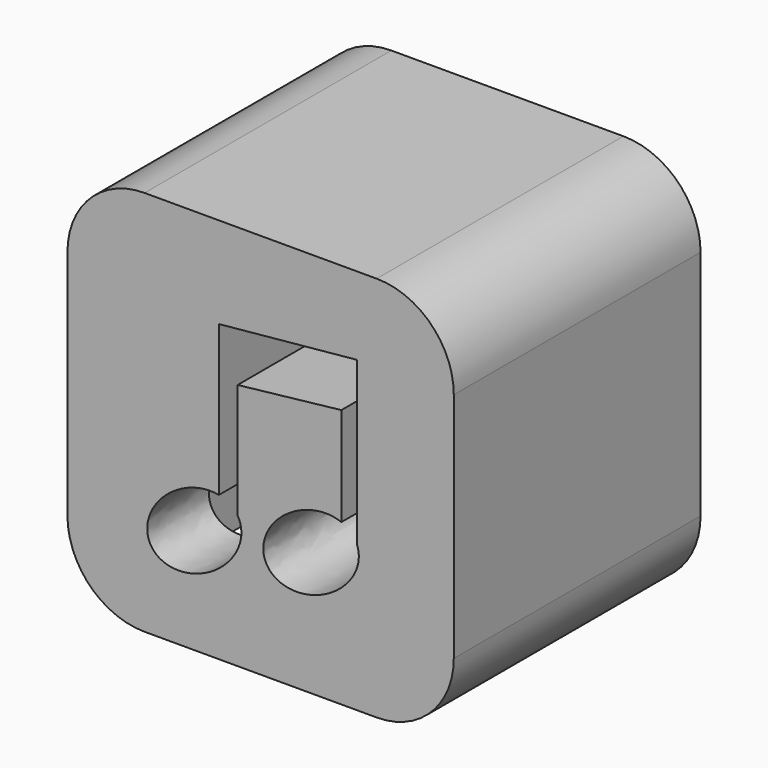
from build123d import *

# Parameters (mm, degrees)
F1_DEPTH = 50.8
F2_W     = 9.5570324153
F2_H     = 25.4
F3_DEPTH = 38.1


with BuildPart() as f1:
    # F0 (on Front) → F1 (new body)
    with BuildSketch(Plane.XZ):
        with BuildLine():
            ThreePointArc((31.8140648305, 19.1140648305), (28.0943209516, 28.0943209516), (19.1140648305, 31.8140648305))
            Line((19.1140648305, 31.8140648305), (-19.1140648305, 31.8140648305))
            ThreePointArc((-19.1140648305, 31.8140648305), (-28.0943209516, 28.0943209516), (-31.8140648305, 19.1140648305))
            Line((-31.8140648305, 19.1140648305), (-31.8140648305, -19.1140648305))
            ThreePointArc((-31.8140648305, -19.1140648305), (-28.0943209516, -28.0943209516), (-19.1140648305, -31.8140648305))
            Line((-19.1140648305, -31.8140648305), (19.1140648305, -31.8140648305))
            ThreePointArc((19.1140648305, -31.8140648305), (28.0943209516, -28.0943209516), (31.8140648305, -19.1140648305))
            Line((31.8140648305, -19.1140648305), (31.8140648305, 19.1140648305))
        make_face()
        with BuildLine():
            Line((0, 17.4502525479), (15.9070324153, 18.9934726804))
            Line((15.9070324153, 18.9934726804), (15.9070324153, -7.8776313864))
            add(Edge.make_bspline(
                [(15.9070324153, -11.0699034313), (16.4537652748, -9.3354312413), (15.9070324153, -7.8776313864)],
                knots=[5.6604471934, 5.6604471934, 5.6604471934, 6.1846253165, 6.1846253165, 6.1846253165], degree=2, weights=[1, 0.9658508127, 1]))
            add(Edge.make_bspline(
                [(13.3015029384, -5.3721268886), (-7.3450386538, 2.6814548398), (0.8200244828, -15.1739199013), (8.9850876193, -33.0292946424), (15.9070324153, -11.0699034313)],
                knots=[0.5226413768, 0.5226413768, 0.5226413768, 3.0915442851, 3.0915442851, 5.6604471934, 5.6604471934, 5.6604471934], degree=2, weights=[1, 0.2824478193, 1, 0.2824478193, 1]))
            Line((13.3015029384, -5.3721268886), (13.3015029384, 10.8670009554))
            Line((13.3015029384, 10.8670009554), (-3.7910551095, 8.953654853))
            Line((-3.7910551095, 8.953654853), (-3.7910551095, -9.9836840186))
            add(Edge.make_bspline(
                [(-6.877981989, -8.0001423255), (-16.0218010445, -6.1281863149), (-18.4720354203, -15.2198331884), (-20.9222697961, -24.311480062), (-10.2479125398, -20.504341458), (0.4264447164, -16.697202854), (-3.7910551095, -9.9836840186)],
                knots=[0.6153833843, 0.6153833843, 0.6153833843, 2.5038190433, 2.5038190433, 4.3922547024, 4.3922547024, 6.2806903614, 6.2806903614, 6.2806903614], degree=2, weights=[1, 0.5863766466, 1, 0.5863766466, 1, 0.5863766466, 1]))
            Line((-6.877981989, -8.0001423255), (-6.877981989, 16.7829853921))
            Line((-6.877981989, 16.7829853921), (0, 17.4502525479))
        make_face(mode=Mode.SUBTRACT)
    extrude(amount=F1_DEPTH)

    # F2 (on face) → F3 (cut)
    with BuildSketch(Plane(origin=(0, 0, -31.8140648305), x_dir=(1, 0, 0), z_dir=(0, 0, -1))):
        Polygon((-19.1140648305, 12.7), (-9.5570324153, 12.7), (-9.5570324153, 38.1), (-19.1140648305, 38.1), (-25.5827749312, 38.1621809185), (-25.5827749312, 12.7), align=None)
        with Locations((-14.3355486229, 25.4)):
            Rectangle(F2_W, F2_H)
    extrude(amount=-F3_DEPTH, mode=Mode.SUBTRACT)


solid = f1.part
